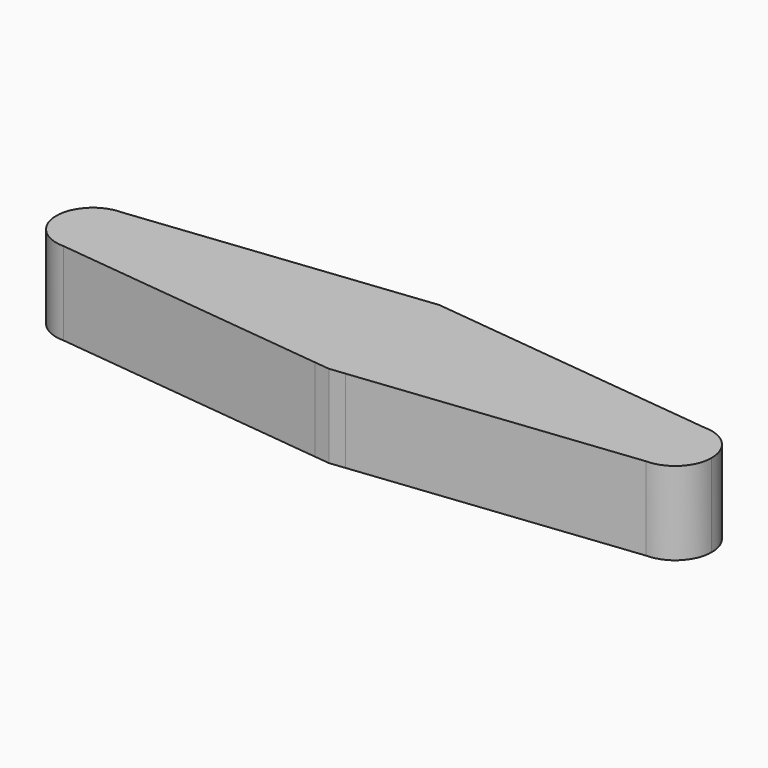
from build123d import *

# Parameters (mm, degrees)
F2_DEPTH = 4.15


with BuildPart() as f2:
    # F1 (on Top) → F2 (new body)
    with BuildSketch(Plane.XY):
        with BuildLine():
            ThreePointArc((-0.761124832, -3.3649946494), (-3.45, 0), (-0.761124832, 3.3649946494))
            Line((-0.761124832, 3.3649946494), (-14.55, 1.825))
            ThreePointArc((-14.55, 1.825), (-13.2595301243, 1.2904698757), (-12.725, 0))
            ThreePointArc((-12.725, 0), (-13.2595301243, -1.2904698757), (-14.55, -1.825))
            Line((-14.55, -1.825), (-0.761124832, -3.3649946494))
        make_face()
        with BuildLine():
            ThreePointArc((-12.725, 0), (-13.2595301243, 1.2904698757), (-14.55, 1.825))
            ThreePointArc((-14.55, 1.825), (-16.375, 0), (-14.55, -1.825))
            ThreePointArc((-14.55, -1.825), (-13.2595301243, -1.2904698757), (-12.725, 0))
        make_face()
        with BuildLine():
            ThreePointArc((0.761124832, -3.3649946494), (2.6952161945, -2.1536735279), (3.45, 0))
            ThreePointArc((3.45, 0), (2.6952161945, 2.1536735279), (0.761124832, 3.3649946494))
            Line((0.761124832, 3.3649946494), (0, 3.45))
            Line((0, 3.45), (-0.761124832, 3.3649946494))
            ThreePointArc((-0.761124832, 3.3649946494), (-3.45, 0), (-0.761124832, -3.3649946494))
            Line((-0.761124832, -3.3649946494), (0, -3.45))
            Line((0, -3.45), (0.761124832, -3.3649946494))
        make_face()
        with BuildLine():
            ThreePointArc((0.761124832, 3.3649946494), (2.6952161945, 2.1536735279), (3.45, 0))
            ThreePointArc((3.45, 0), (2.6952161945, -2.1536735279), (0.761124832, -3.3649946494))
            Line((0.761124832, -3.3649946494), (14.55, -1.825))
            ThreePointArc((14.55, -1.825), (12.725, 0), (14.55, 1.825))
            Line((14.55, 1.825), (0.761124832, 3.3649946494))
        make_face()
        with BuildLine():
            ThreePointArc((16.375, 0), (15.8404698757, 1.2904698757), (14.55, 1.825))
            ThreePointArc((14.55, 1.825), (12.725, 0), (14.55, -1.825))
            ThreePointArc((14.55, -1.825), (15.8404698757, -1.2904698757), (16.375, 0))
        make_face()
    extrude(amount=F2_DEPTH)


solid = f2.part
